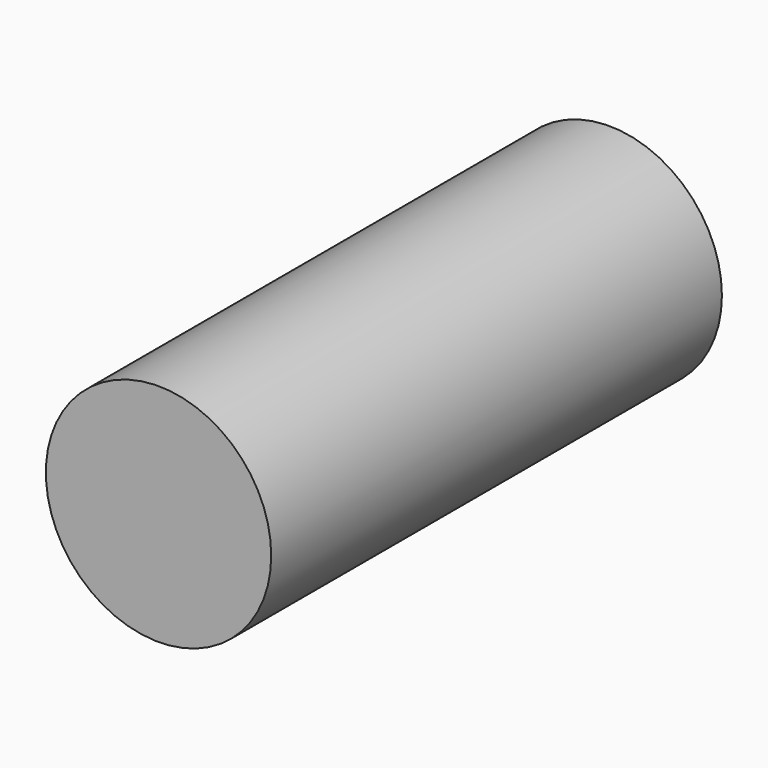
from build123d import *

# Parameters (mm, degrees)
CYLINDER_R          = 2
CYLINDER_DEPTH      = 10
CYLINDER_ROLL_ANGLE = 90


with BuildPart() as part:
    # Cylinder → Cylinder (new body)
    with BuildSketch(Plane.XY):
        Circle(CYLINDER_R)
    extrude(amount=CYLINDER_DEPTH)


with BuildPart() as part_1:
    # Cylinder roll: moved
    add(part.part.rotate(Axis((0, 0, 0), (1, 0, 0)), CYLINDER_ROLL_ANGLE))


with BuildPart() as part_2:
    # Cylinder placement: moved
    add(part_1.part)


solid = part_2.part
